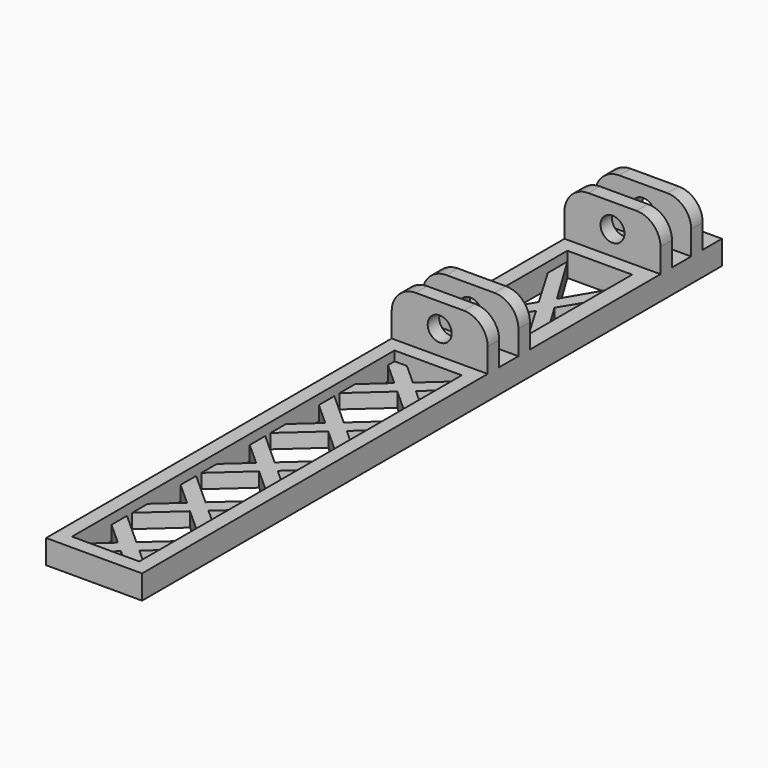
from build123d import *

# Parameters (mm, degrees)
F0_W      = 20
F0_H      = 5
F0_H_2    = 3
F0_H_3    = 90
F0_H_4    = 34
F1_DEPTH  = 5
F2_W      = 20
F2_H      = 3
F2_H_2    = 5
F2_H_3    = 34
F3_DEPTH  = 5
F4_W      = 20
F4_H      = 3
F5_DEPTH  = 10
F6_R      = 2.5
F7_DEPTH  = 56
F8_R      = 5
F10_DEPTH = 5
F12_DEPTH = 5
F13_W     = 14
F13_H     = 84
F13_W_2   = 13.5
F13_H_2   = 28
F14_DEPTH = 2


with BuildPart() as f1:
    # F0 (on Top) → F1 (new body)
    with BuildSketch(Plane.XY):
        with Locations((0, 65)):
            Rectangle(F0_W, F0_H)
        with Locations((0, 61)):
            Rectangle(F0_W, F0_H_2)
        with Locations((0, 73)):
            Rectangle(F0_W, F0_H)
        with Locations((0, 20)):
            Rectangle(F0_W, F0_H)
        with Locations((0, 24)):
            Rectangle(F0_W, F0_H_2)
        with Locations((0, -30.5)):
            Rectangle(F0_W, F0_H_3)
        with Locations((0, 16)):
            Rectangle(F0_W, F0_H_2)
        with Locations((0, 69)):
            Rectangle(F0_W, F0_H_2)
        with Locations((0, 42.5)):
            Rectangle(F0_W, F0_H_4)
    extrude(amount=F1_DEPTH)

    # F2 (on Top) → F3 (join, through all)
    with BuildSketch(Plane.XY):
        with Locations((0, 69)):
            Rectangle(F2_W, F2_H)
        with Locations((0, 69)):
            Rectangle(F2_W, F2_H)
        with Locations((0, 73)):
            Rectangle(F2_W, F2_H_2)
        with Locations((0, 65)):
            Rectangle(F2_W, F2_H_2)
        with Locations((0, 61)):
            Rectangle(F2_W, F2_H)
        with Locations((0, 61)):
            Rectangle(F2_W, F2_H)
        with Locations((0, 24)):
            Rectangle(F2_W, F2_H)
        with Locations((0, 24)):
            Rectangle(F2_W, F2_H)
        with Locations((0, 42.5)):
            Rectangle(F2_W, F2_H_3)
        with Locations((0, 20)):
            Rectangle(F2_W, F2_H_2)
        with Locations((0, 16)):
            Rectangle(F2_W, F2_H)
        with Locations((0, 16)):
            Rectangle(F2_W, F2_H)
    extrude(amount=F3_DEPTH)

    # F4 (on face) → F5 (join)
    with BuildSketch(Plane.XY.offset(5)):
        with Locations((0, 69)):
            Rectangle(F4_W, F4_H)
        with Locations((0, 61)):
            Rectangle(F4_W, F4_H)
        with Locations((0, 24)):
            Rectangle(F4_W, F4_H)
        with Locations((0, 16)):
            Rectangle(F4_W, F4_H)
    extrude(amount=F5_DEPTH)

    # F6 (on face) → F7 (cut, through all)
    with BuildSketch(Plane.XZ.offset(-14.5)):
        with Locations((0, 10)):
            Circle(F6_R)
    extrude(amount=-F7_DEPTH, mode=Mode.SUBTRACT)

    # F8
    f8_edges = [f1.edges().sort_by_distance(p)[0] for p in [
        (10, 69, 15),
        (10, 61, 15),
        (-10, 61, 15),
        (-10, 69, 15),
        (10, 24, 15),
        (-10, 24, 15),
        (-10, 16, 15),
        (10, 16, 15),
    ]]
    fillet(f8_edges, radius=F8_R)

    # F9 (on face) → F10 (cut, through all)
    with BuildSketch(Plane.XY.offset(5)):
        Polygon((4.4243959922, 11.5), (-4.4243959922, 11.5), (0, 7.5180436071), align=None)
        Polygon((-2.2422706745, 5.5), (-7, 9.7819563929), (-7, 1.2180436071), align=None)
        Polygon((0, -14.5180436071), (-7, -20.8180436071), (-7, -22.1819563929), (0, -28.4819563929), (7, -22.1819563929), (7, -20.8180436071), align=None)
        Polygon((0, -32.5180436071), (-7, -38.8180436071), (-7, -40.1819563929), (0, -46.4819563929), (7, -40.1819563929), (7, -38.8180436071), align=None)
        Polygon((7, -52.7819563929), (7, -44.2180436071), (2.2422706745, -48.5), align=None)
        Polygon((-2.2422706745, -66.5), (-7, -62.2180436071), (-7, -70.7819563929), align=None)
        Polygon((7, -2.8180436071), (0, 3.4819563929), (-7, -2.8180436071), (-7, -4.1819563929), (0, -10.4819563929), (7, -4.1819563929), align=None)
        Polygon((7, 1.2180436071), (7, 9.7819563929), (2.2422706745, 5.5), align=None)
        Polygon((7, -16.7819563929), (7, -8.2180436071), (2.2422706745, -12.5), align=None)
        Polygon((-2.2422706745, -12.5), (-7, -8.2180436071), (-7, -16.7819563929), align=None)
        Polygon((7, -34.7819563929), (7, -26.2180436071), (2.2422706745, -30.5), align=None)
        Polygon((-2.2422706745, -30.5), (-7, -26.2180436071), (-7, -34.7819563929), align=None)
        Polygon((-2.2422706745, -48.5), (-7, -44.2180436071), (-7, -52.7819563929), align=None)
        Polygon((0, -50.5180436071), (-7, -56.8180436071), (-7, -58.1819563929), (0, -64.4819563929), (7, -58.1819563929), (7, -56.8180436071), align=None)
        Polygon((7, -70.7819563929), (7, -62.2180436071), (2.2422706745, -66.5), align=None)
        Polygon((4.4243959922, -72.5), (0, -68.5180436071), (-4.4243959922, -72.5), align=None)
    extrude(amount=-F10_DEPTH, mode=Mode.SUBTRACT)

    # F11 (on face) → F12 (cut, through all)
    with BuildSketch(Plane.XY.offset(5)):
        Polygon((-0.1457620642, 45.2106669293), (6.495022095, 56.5), (-7, 56.5), align=None)
        Polygon((6.5, 34.2647058824), (6.5, 50.7597279774), (1.5, 42.5), align=None)
        Polygon((6.5, 28.5), (-0.1468471232, 39.7794981484), (-6.9748553696, 28.5), align=None)
        Polygon((-1.7451316723, 42.4917385955), (-7, 51.4090909091), (-7, 33.5584624385), align=None)
    extrude(amount=-F12_DEPTH, mode=Mode.SUBTRACT)

    # F13 (on face) → F14 (cut, through all)
    with BuildSketch(Plane.XY.offset(5)):
        with Locations((0, -30.5)):
            Rectangle(F13_W, F13_H)
        with Locations((-0.25, 42.5)):
            Rectangle(F13_W_2, F13_H_2)
    extrude(amount=-F14_DEPTH, mode=Mode.SUBTRACT)


solid = f1.part
